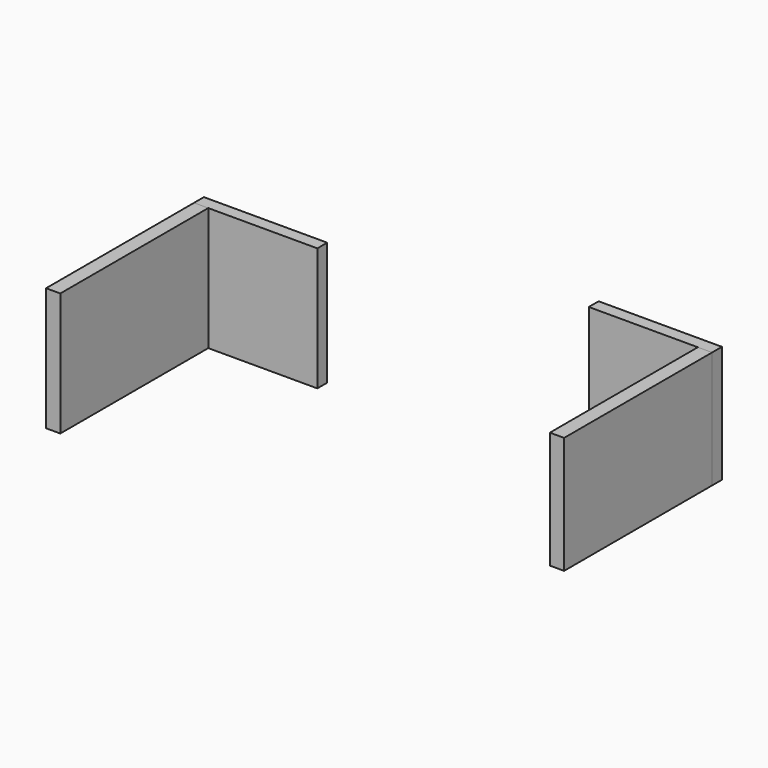
from build123d import *

# Parameters (mm, degrees)
F0_W     = 25.4
F0_H     = 24.116988
F0_H_2   = 25.4
F1_DEPTH = 2.54
F2_W     = 2.930686
F2_H     = 25.4
F3_W     = 2.930678
F3_H     = 24.116988
F4_DEPTH = 38.1


with BuildPart() as f1:
    # F0 (on Front) → F1 (new body)
    with BuildSketch(Plane.XZ):
        with Locations((25.272356, -23.381314)):
            Rectangle(F0_W, F0_H)
        with Locations((-56.039779, -31.579505)):
            Rectangle(F0_W, F0_H_2)
    extrude(amount=F1_DEPTH)


with BuildPart() as f4:
    # F2 (on face) + F3 (on face) → F4 (new body)
    with BuildSketch(Plane.XZ.offset(2.54)):
        with Locations((-67.274436, -31.579505)):
            Rectangle(F2_W, F2_H)
    with BuildSketch(Plane.XZ.offset(2.54)):
        with Locations((36.507017, -23.381314)):
            Rectangle(F3_W, F3_H)
    extrude(amount=F4_DEPTH)


solid = Compound([f1.part, f4.part])
